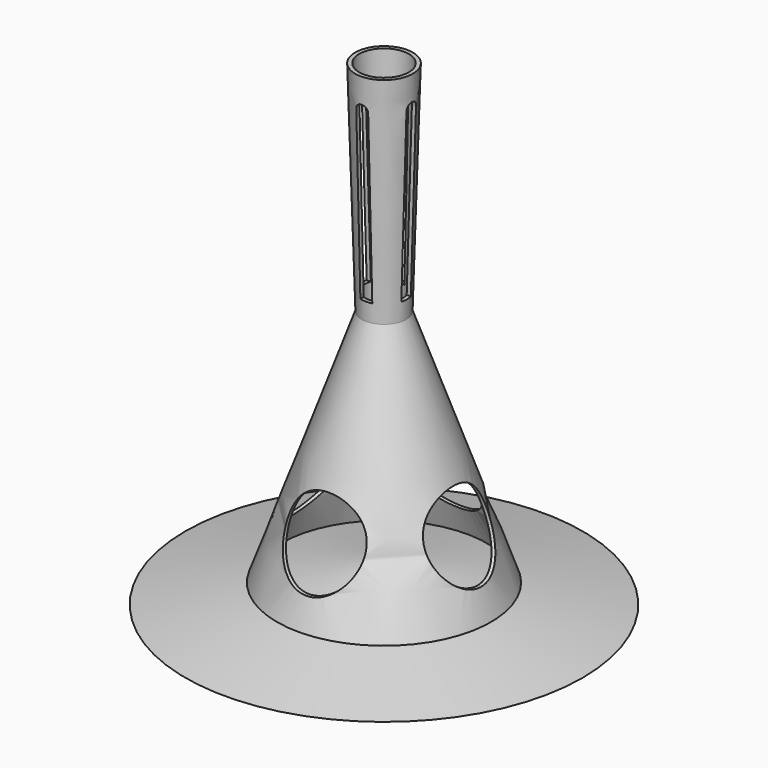
from build123d import *

# Parameters (mm, degrees)
SKETCH018_R           = 10
POCKET006_DEPTH       = 35
POLARPATTERN008_COUNT = 4
POCKET007_DEPTH       = 100
POCKET007_DEPTH_BACK  = 100
POLARPATTERN009_COUNT = 4


with BuildPart() as part:
    # Sketch017 → Revolution001 (revolve)
    with BuildSketch(Plane.XZ):
        Polygon((-6.25, 120), (-7.25, 120), (-5.625, 65), (-26.965519, 4.887787), (-50, 0), (0, 0), (0, 10), (-25.987299, 5.09536), (-4.625, 65), align=None)
    revolve(axis=Axis((0, 0, 0), (0, 0, 1)))

    # Sketch018 → Pocket006 (cut)
    with BuildSketch(Plane.YZ):
        with Locations((0, 21.886938)):
            Circle(SKETCH018_R)
    pocket006 = extrude(amount=-POCKET006_DEPTH, mode=Mode.SUBTRACT)

    # PolarPattern008: Pocket006 ×4 about axis
    polarpattern008_axis = Axis((0, 0, 0), (0, 0, 1))
    for i in range(1, POLARPATTERN008_COUNT):
        add(pocket006.rotate(polarpattern008_axis, i * 360 / POLARPATTERN008_COUNT), mode=Mode.SUBTRACT)

    # Sketch019 → Pocket007 (cut, two sides)
    with BuildSketch(Plane.XZ) as pocket007_sk:
        with BuildLine():
            Line((1.5, 112.155254), (1.5, 69.486717))
            Line((1.5, 69.486717), (-1.5, 69.486717))
            Line((-1.5, 69.486717), (-1.5, 112.155254))
            ThreePointArc((1.5, 112.155254), (0, 113.674545), (-1.5, 112.155254))
        make_face()
    pocket007 = extrude(amount=-POCKET007_DEPTH, mode=Mode.SUBTRACT) + extrude(pocket007_sk.sketch, amount=POCKET007_DEPTH_BACK, mode=Mode.SUBTRACT)

    # PolarPattern009: Pocket007 ×4 about axis
    polarpattern009_axis = Axis((0, 0, 0), (0, 0, 1))
    for i in range(1, POLARPATTERN009_COUNT):
        add(pocket007.rotate(polarpattern009_axis, i * 360 / POLARPATTERN009_COUNT), mode=Mode.SUBTRACT)


solid = part.part
